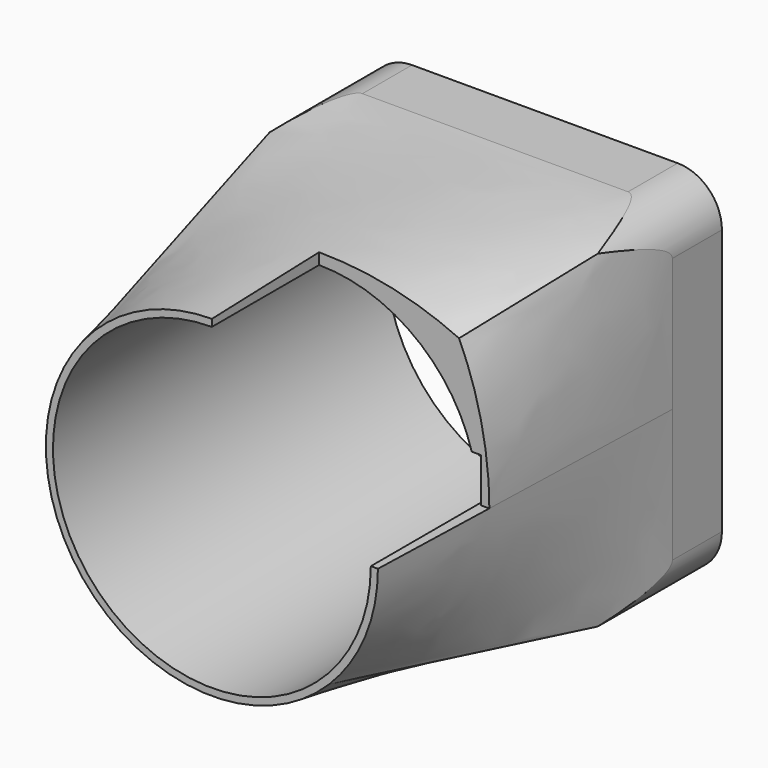
from build123d import *

# Parameters (mm, degrees)
F0_W      = 40
F0_H      = 40
F1_DEPTH  = 7
F3_R      = 18.75
F1_FACE_W = 40
F1_FACE_H = 40
F5_R      = 17.95
F6_DEPTH  = 47
F7_R      = 1.4
F8_DEPTH  = 7
F9_R      = 5
F11_DEPTH = 20
F13_DEPTH = 5


with BuildPart() as f1:
    # F0 (on Front) → F1 (new body)
    with BuildSketch(Plane.XZ):
        Rectangle(F0_W, F0_H)
    extrude(amount=F1_DEPTH)

    # F3 (on offset) → F4 section 0
    with BuildSketch(Plane.XZ.offset(47)):
        Circle(F3_R)
    # F1_face (on face) → F4 section 1
    with BuildSketch(Plane.XZ.offset(7)):
        Rectangle(F1_FACE_W, F1_FACE_H)
    loft()

    # F5 (on face) → F6 (cut, through all)
    with BuildSketch(Plane.XZ.offset(47)):
        Circle(F5_R)
    extrude(amount=-F6_DEPTH, mode=Mode.SUBTRACT)

    # F7 (on face) → F8 (cut, through all)
    with BuildSketch(Plane(origin=(0, 0, 0), x_dir=(-1, 0, 0), z_dir=(0, 1, 0))):
        with Locations((-16.45, 16.45)):
            Circle(F7_R)
        with Locations((16.45, 16.45)):
            Circle(F7_R)
        with Locations((-16.45, -16.45)):
            Circle(F7_R)
        with Locations((16.45, -16.45)):
            Circle(F7_R)
    extrude(amount=-F8_DEPTH, mode=Mode.SUBTRACT)

    # F9
    f9_edges = [f1.edges().sort_by_distance(p)[0] for p in [
        (20, -3.5, -20),
        (20, -3.5, 20),
        (-20, -3.5, 20),
        (-20, -3.5, -20),
    ]]
    fillet(f9_edges, radius=F9_R)

    # F10 (on face) → F11 (cut)
    with BuildSketch(Plane.XY.offset(20)):
        Polygon((0, -31.8655073643), (0, -47.008369118), (0, -48.6102327704), (19.3509273231, -48.6102327704), (19.3509273231, -31.8655073643), align=None)
    extrude(amount=-F11_DEPTH, mode=Mode.SUBTRACT)

    # F12 (on face) → F13 (cut)
    with BuildSketch(Plane.XZ.offset(31.8655073643)):
        with BuildLine():
            Line((15.9311909229, 0), (17.95, 0))
            ThreePointArc((17.95, 0), (17.7714847113, 2.5252388315), (17.2394895648, 5.0002499484))
            Line((17.2394895648, 5.0002499484), (15.9311909229, 5.0002499484))
            Line((15.9311909229, 5.0002499484), (15.9311909229, 0))
        make_face()
        with BuildLine():
            ThreePointArc((17.2394895648, 5.0002499484), (17.7714847113, 2.5252388315), (17.95, 0))
            Line((17.95, 0), (18.3052159846, 0))
            Line((18.3052159846, 0), (18.3052159846, 5.0002499484))
            Line((18.3052159846, 5.0002499484), (17.2394895648, 5.0002499484))
        make_face()
    extrude(amount=-F13_DEPTH, mode=Mode.SUBTRACT)


solid = f1.part
